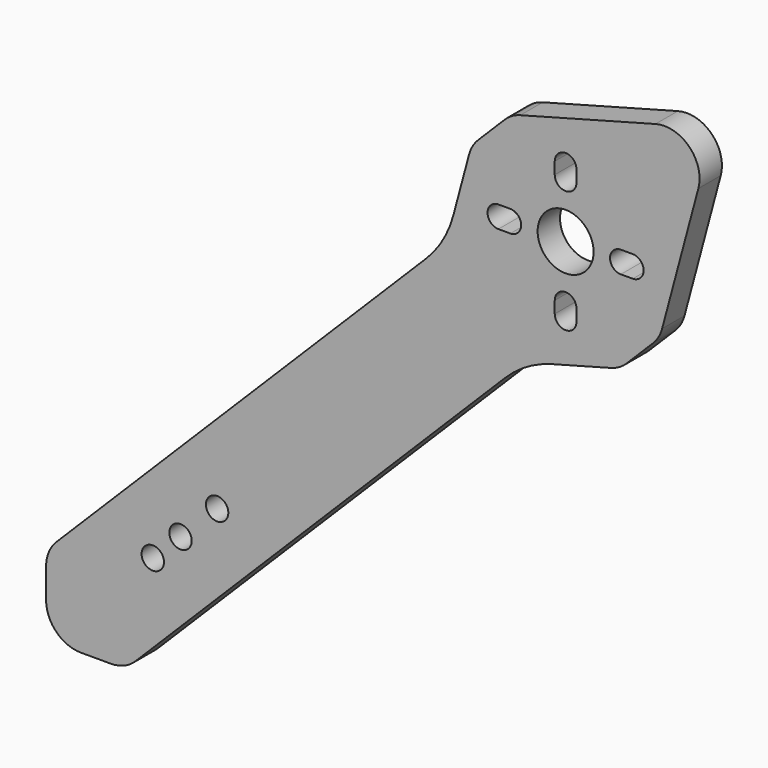
from build123d import *

# Parameters (mm, degrees)
F0_R     = 1.6
F0_R_2   = 4
F1_DEPTH = 4


with BuildPart() as f1:
    # F0 (on Front) → F1 (new body)
    with BuildSketch(Plane.XZ):
        with BuildLine():
            Line((54.332083, 65.645791), (1.464466, 12.778175))
            ThreePointArc((1.464466, 12.778175), (0.380602, 11.156058), (0, 9.242641))
            Line((0, 9.242641), (0, 5))
            ThreePointArc((0, 5), (1.464466, 1.464466), (5, 0))
            Line((5, 0), (9.242641, 0))
            ThreePointArc((9.242641, 0), (11.156058, 0.380602), (12.778175, 1.464466))
            Line((12.778175, 1.464466), (65.645791, 54.332083))
            ThreePointArc((65.645791, 54.332083), (68.752393, 56.715862), (72.370107, 58.214369))
            Line((72.370107, 58.214369), (80.716688, 60.450828))
            ThreePointArc((80.716688, 60.450828), (81.922593, 60.95033), (82.958127, 61.744923))
            Line((82.958127, 61.744923), (86.747501, 65.534297))
            ThreePointArc((86.747501, 65.534297), (87.542094, 66.569831), (88.041596, 67.775736))
            Line((88.041596, 67.775736), (93.217977, 87.094252))
            ThreePointArc((93.217977, 87.094252), (91.923882, 91.923882), (87.094252, 93.217977))
            Line((87.094252, 93.217977), (67.775736, 88.041596))
            ThreePointArc((67.775736, 88.041596), (66.569831, 87.542094), (65.534297, 86.747501))
            Line((65.534297, 86.747501), (61.744923, 82.958127))
            ThreePointArc((61.744923, 82.958127), (60.95033, 81.922593), (60.450828, 80.716688))
            Line((60.450828, 80.716688), (58.214369, 72.370107))
            ThreePointArc((58.214369, 72.370107), (56.715862, 68.752393), (54.332083, 65.645791))
        make_face()
        with Locations((15.25, 15.25)):
            Circle(F0_R, mode=Mode.SUBTRACT)
        with Locations((19.214685, 19.214685)):
            Circle(F0_R, mode=Mode.SUBTRACT)
        with Locations((24.444211, 24.444211)):
            Circle(F0_R, mode=Mode.SUBTRACT)
        with BuildLine():
            ThreePointArc((75.796212, 64.646212), (74.246212, 63.096212), (72.696212, 64.646212))
            Line((72.696212, 64.646212), (72.696212, 66.346212))
            ThreePointArc((72.696212, 66.346212), (74.246212, 67.896212), (75.796212, 66.346212))
            Line((75.796212, 66.346212), (75.796212, 64.646212))
        make_face(mode=Mode.SUBTRACT)
        with BuildLine():
            ThreePointArc((64.646212, 72.696212), (63.096212, 74.246212), (64.646212, 75.796212))
            Line((64.646212, 75.796212), (66.346212, 75.796212))
            ThreePointArc((66.346212, 75.796212), (67.896212, 74.246212), (66.346212, 72.696212))
            Line((66.346212, 72.696212), (64.646212, 72.696212))
        make_face(mode=Mode.SUBTRACT)
        with Locations((74.246212, 74.246212)):
            Circle(F0_R_2, mode=Mode.SUBTRACT)
        with BuildLine():
            ThreePointArc((83.846212, 75.796212), (85.396212, 74.246212), (83.846212, 72.696212))
            Line((83.846212, 72.696212), (82.146212, 72.696212))
            ThreePointArc((82.146212, 72.696212), (80.596212, 74.246212), (82.146212, 75.796212))
            Line((82.146212, 75.796212), (83.846212, 75.796212))
        make_face(mode=Mode.SUBTRACT)
        with BuildLine():
            ThreePointArc((72.696212, 83.846212), (74.246212, 85.396212), (75.796212, 83.846212))
            Line((75.796212, 83.846212), (75.796212, 82.146212))
            ThreePointArc((75.796212, 82.146212), (74.246212, 80.596212), (72.696212, 82.146212))
            Line((72.696212, 82.146212), (72.696212, 83.846212))
        make_face(mode=Mode.SUBTRACT)
    extrude(amount=F1_DEPTH)


solid = f1.part
